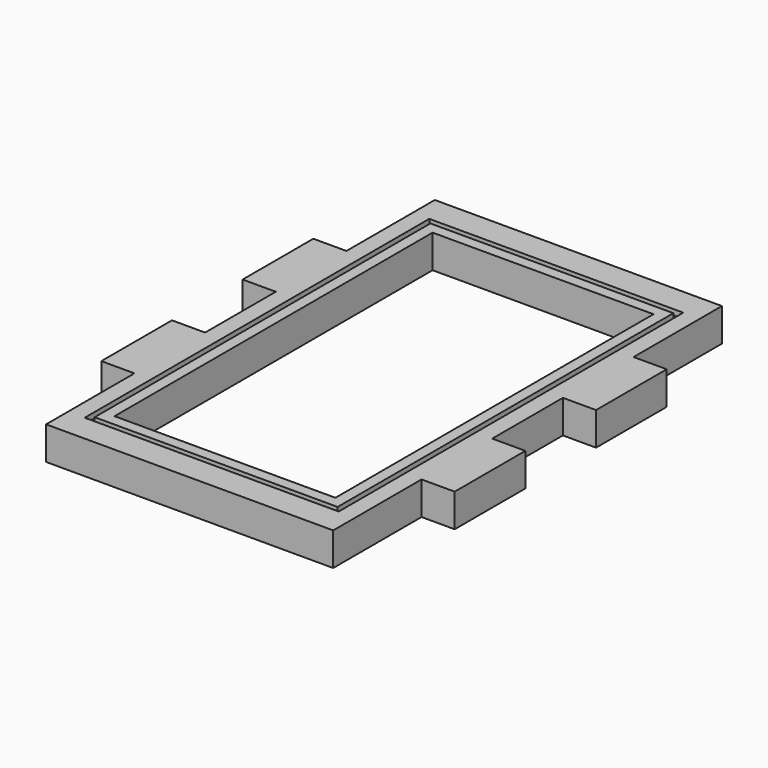
from build123d import *

# Parameters (mm, degrees)
F0_W     = 127
F0_H     = 228.6
F1_DEPTH = 19.05
F2_W     = 146.05
F2_H     = 247.65
F2_W_2   = 139.7
F2_H_2   = 241.3
F3_DEPTH = 3.175


with BuildPart() as f1:
    # F0 (on Top) → F1 (new body)
    with BuildSketch(Plane.XY):
        Polygon((82.55, 139.7), (-82.55, 139.7), (-82.55, 76.2), (-101.6, 76.2), (-101.6, 25.4), (-82.55, 25.4), (-82.55, -25.4), (-101.6, -25.4), (-101.6, -76.2), (-82.55, -76.2), (-82.55, -139.7), (82.55, -139.7), (82.55, -76.2), (101.6, -76.2), (101.6, -25.4), (82.55, -25.4), (82.55, 25.4), (101.6, 25.4), (101.6, 76.2), (82.55, 76.2), align=None)
        Rectangle(F0_W, F0_H, mode=Mode.SUBTRACT)
    extrude(amount=F1_DEPTH)

    # F2 (on face) → F3 (cut)
    with BuildSketch(Plane.XY.offset(19.05)):
        Rectangle(F2_W, F2_H)
        Rectangle(F2_W_2, F2_H_2, mode=Mode.SUBTRACT)
    extrude(amount=-F3_DEPTH, mode=Mode.SUBTRACT)


solid = f1.part
